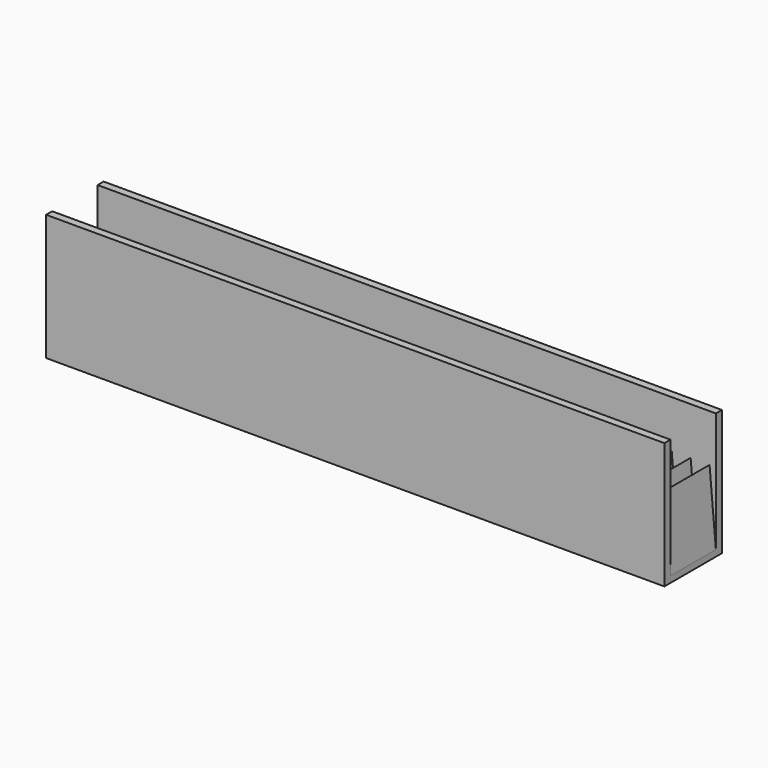
from build123d import *

# Parameters (mm, degrees)
F0_W     = 200
F0_H     = 18
F1_DEPTH = 2
F2_W     = 200
F2_H     = 2.4
F3_DEPTH = 40
F5_DEPTH = 18
F6_W     = 4
F6_H     = 40
F7_DEPTH = 22.801


with BuildPart() as f1:
    # F0 (on Top) → F1 (new body)
    with BuildSketch(Plane.XY):
        with Locations((100, 9)):
            Rectangle(F0_W, F0_H)
    extrude(amount=F1_DEPTH)

    # F2 (on face) → F3 (join)
    with BuildSketch(Plane(origin=(0, 0, 0), x_dir=(1, 0, 0), z_dir=(0, 0, -1))):
        with Locations((100, 1.2)):
            Rectangle(F2_W, F2_H)
        with Locations((100, -19.2)):
            Rectangle(F2_W, F2_H)
    extrude(amount=-F3_DEPTH)

    # F4 (on face) → F5 (join, through all)
    with BuildSketch(Plane.XZ.offset(-18)):
        Polygon((2, 25), (0, 2), (4, 2), align=None)
        Polygon((10, 2), (8, 25), (6, 2), align=None)
        Polygon((16, 2), (14, 25), (12, 2), align=None)
        Polygon((22, 2), (20, 25), (18, 2), align=None)
        Polygon((28, 2), (26, 25), (24, 2), align=None)
        Polygon((34, 2), (32, 25), (30, 2), align=None)
        Polygon((40, 2), (38, 25), (36, 2), align=None)
        Polygon((46, 2), (44, 25), (42, 2), align=None)
        Polygon((52, 2), (50, 25), (48, 2), align=None)
        Polygon((58, 2), (56, 25), (54, 2), align=None)
        Polygon((64, 2), (62, 25), (60, 2), align=None)
        Polygon((70, 2), (68, 25), (66, 2), align=None)
        Polygon((76, 2), (74, 25), (72, 2), align=None)
        Polygon((82, 2), (80, 25), (78, 2), align=None)
        Polygon((88, 2), (86, 25), (84, 2), align=None)
        Polygon((94, 2), (92, 25), (90, 2), align=None)
        Polygon((100, 2), (98, 25), (96, 2), align=None)
        Polygon((106, 2), (104, 25), (102, 2), align=None)
        Polygon((112, 2), (110, 25), (108, 2), align=None)
        Polygon((118, 2), (116, 25), (114, 2), align=None)
        Polygon((124, 2), (122, 25), (120, 2), align=None)
        Polygon((130, 2), (128, 25), (126, 2), align=None)
        Polygon((136, 2), (134, 25), (132, 2), align=None)
        Polygon((142, 2), (140, 25), (138, 2), align=None)
        Polygon((148, 2), (146, 25), (144, 2), align=None)
        Polygon((154, 2), (152, 25), (150, 2), align=None)
        Polygon((160, 2), (158, 25), (156, 2), align=None)
        Polygon((166, 2), (164, 25), (162, 2), align=None)
        Polygon((172, 2), (170, 25), (168, 2), align=None)
        Polygon((178, 2), (176, 25), (174, 2), align=None)
        Polygon((184, 2), (182, 25), (180, 2), align=None)
        Polygon((190, 2), (188, 25), (186, 2), align=None)
        Polygon((196, 2), (194, 25), (192, 2), align=None)
    extrude(amount=F5_DEPTH)

    # F6 (on face) → F7 (cut, through all)
    with BuildSketch(Plane(origin=(0, 20.4, 0), x_dir=(-1, 0, 0), z_dir=(0, 1, 0))):
        with Locations((-198, 20)):
            Rectangle(F6_W, F6_H)
    extrude(amount=-F7_DEPTH, mode=Mode.SUBTRACT)


solid = f1.part
